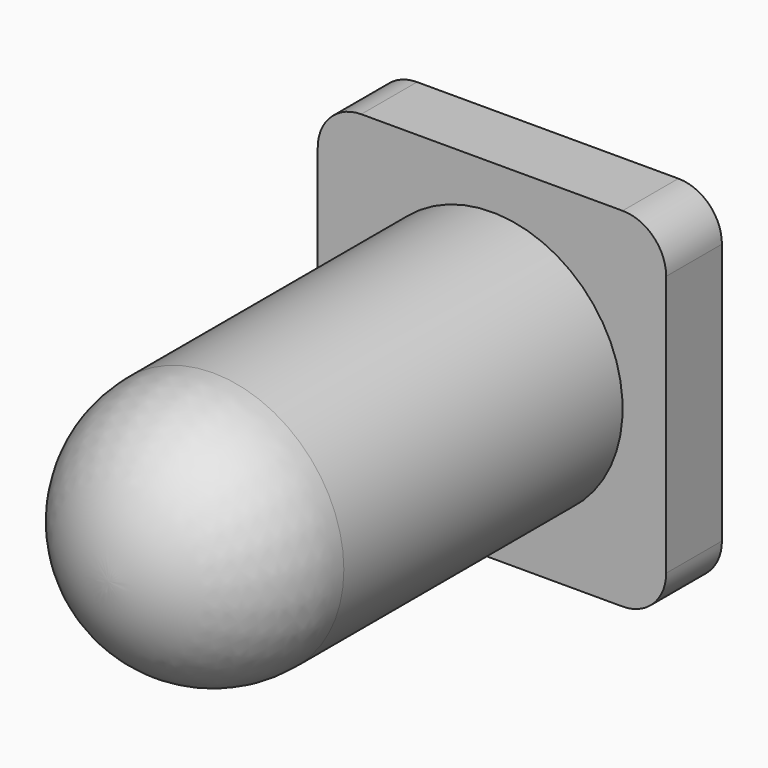
from build123d import *

# Parameters (mm, degrees)
F2_R     = 7.5
F3_DEPTH = 20
F4_W     = 20
F4_H     = 20
F5_DEPTH = 4
F6_R     = 2.5


with BuildPart() as f1:
    # F0 (on Top) → F1 (revolve)
    with BuildSketch(Plane.XY):
        with BuildLine():
            ThreePointArc((0, -7.5), (5.303301, -5.303301), (7.5, 0))
            Line((7.5, 0), (0, 0))
            Line((0, 0), (0, -7.5))
        make_face()
    revolve(axis=Axis((0, -3.75, 0), (0, -1, 0)))

    # F2 (on face) → F3 (join)
    with BuildSketch(Plane(origin=(0, 0, 0), x_dir=(-1, 0, 0), z_dir=(0, 1, 0))):
        Circle(F2_R)
    extrude(amount=F3_DEPTH)

    # F4 (on face) → F5 (join)
    with BuildSketch(Plane(origin=(0, 20, 0), x_dir=(-1, 0, 0), z_dir=(0, 1, 0))):
        Rectangle(F4_W, F4_H)
    extrude(amount=F5_DEPTH)

    # F6
    f6_edges = [f1.edges().sort_by_distance(p)[0] for p in [
        (-10, 22, 10),
        (-10, 22, -10),
        (10, 22, -10),
        (10, 22, 10),
    ]]
    fillet(f6_edges, radius=F6_R)


solid = f1.part
